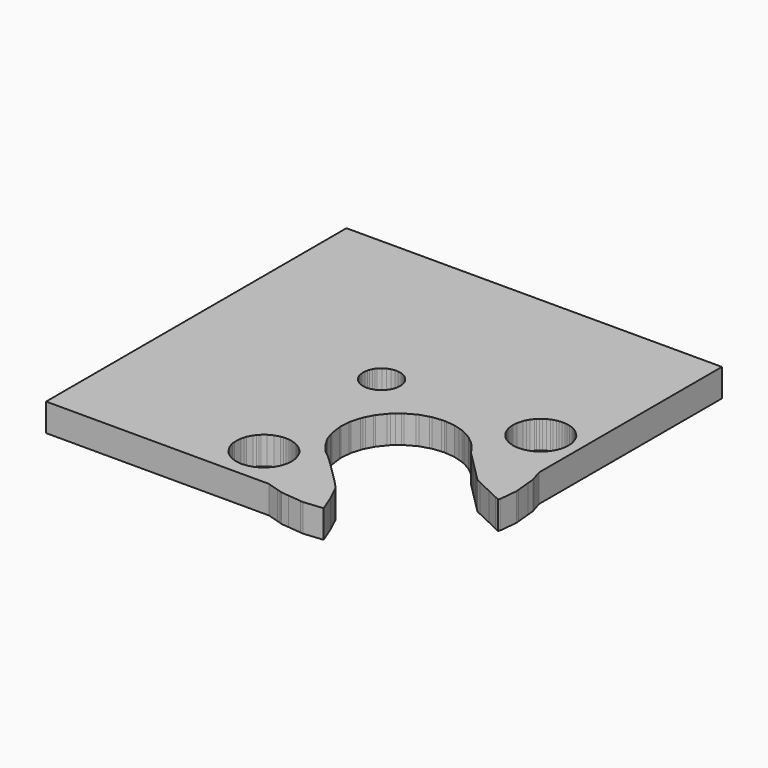
from build123d import *

# Parameters (mm, degrees)
F1_DEPTH = 3


with BuildPart() as f1:
    # F0 (on Top) → F1 (new body)
    with BuildSketch(Plane.XY):
        Polygon((-20.58, 20.649), (-20.58, -19.851), (3.454, -19.851), (4.676, -20.221), (5.018, -20.323), (5.282, -20.407), (6.062, -20.483), (7.502, -20.623), (7.776, -20.649), (9.83, -20.447), (9.146, -18.691), (8.506, -17.335), (8.342, -16.991), (7.854, -16.413), (7.252, -15.807), (6.136, -14.693), (5.44, -13.999), (4.368, -12.973), (3.77, -12.481), (3.432, -12.203), (3.174, -11.891), (2.826, -11.465), (2.342, -10.671), (2.112, -10.241), (1.918, -9.629), (1.812, -9.283), (1.644, -8.085), (1.618, -7.827), (1.712, -6.879), (1.736, -6.621), (2.014, -5.707), (2.088, -5.459), (2.196, -5.259), (2.538, -4.619), (2.634, -4.441), (3.238, -3.685), (3.432, -3.453), (3.77, -3.175), (4.17, -2.847), (4.324, -2.719), (5.21, -2.233), (5.44, -2.111), (6.352, -1.835), (6.598, -1.759), (7.55, -1.665), (7.808, -1.641), (8.064, -1.665), (9.012, -1.759), (9.606, -1.939), (10.032, -2.067), (10.404, -2.233), (11.246, -2.683), (11.946, -3.259), (12.374, -3.685), (12.952, -4.391), (13.122, -4.707), (13.744, -5.329), (14.128, -5.715), (14.492, -6.079), (15.608, -7.197), (16.346, -7.935), (16.75, -8.335), (17.15, -8.525), (18.762, -9.285), (19.894, -9.821), (20.296, -10.011), (20.382, -9.825), (20.58, -7.849), (20.552, -7.575), (20.408, -6.133), (20.332, -5.353), (20.25, -5.089), (19.92, -3.991), (19.92, 20.649), align=None)
        Polygon((-3.55, -16.033), (-3.586, -15.663), (-3.55, -14.863), (-3.462, -14.577), (-3.378, -14.301), (-3.102, -13.781), (-2.912, -13.551), (-2.782, -13.393), (-2.648, -13.261), (-2.274, -12.953), (-1.754, -12.677), (-1.192, -12.507), (-0.862, -12.473), (-0.606, -12.449), (-0.27, -12.483), (-0.016, -12.517), (0.236, -12.585), (0.542, -12.677), (0.844, -12.841), (1.178, -13.051), (1.586, -13.415), (1.888, -13.781), (2.08, -14.145), (2.196, -14.405), (2.336, -14.863), (2.394, -15.449), (2.336, -16.033), (2.164, -16.597), (2.026, -16.857), (1.888, -17.115), (1.722, -17.317), (1.496, -17.585), (1.224, -17.807), (0.96, -17.997), (0.72, -18.125), (0.514, -18.229), (-0.038, -18.393), (-0.606, -18.449), (-0.862, -18.425), (-1.174, -18.395), (-1.436, -18.319), (-1.796, -18.199), (-2.094, -18.039), (-2.384, -17.853), (-2.728, -17.569), (-2.95, -17.303), (-3.378, -16.597), align=None, mode=Mode.SUBTRACT)
        Polygon((-2.972, 0.441), (-3.038, 0.825), (-3.034, 1.215), (-2.984, 1.481), (-2.926, 1.681), (-2.794, 1.955), (-2.7, 2.119), (-2.572, 2.275), (-2.288, 2.545), (-1.96, 2.757), (-1.598, 2.899), (-1.214, 2.967), (-0.898, 2.967), (-0.514, 2.899), (-0.15, 2.757), (0.178, 2.545), (0.606, 2.095), (0.792, 1.749), (0.906, 1.373), (0.932, 1.095), (0.926, 0.805), (0.9, 0.573), (0.84, 0.375), (0.716, 0.077), (0.506, -0.251), (0.386, -0.397), (0.234, -0.531), (0.078, -0.659), (-0.108, -0.767), (-0.29, -0.865), (-0.514, -0.933), (-0.742, -0.987), (-1.056, -1.017), (-1.446, -0.979), (-1.822, -0.865), (-2.168, -0.679), (-2.472, -0.429), (-2.72, -0.127), (-2.868, 0.151), align=None, mode=Mode.SUBTRACT)
        Polygon((12.826, 1.091), (12.798, 1.381), (12.846, 1.867), (13.008, 2.469), (13.156, 2.777), (13.3, 3.047), (13.536, 3.329), (13.654, 3.473), (13.838, 3.635), (14.054, 3.813), (14.34, 3.987), (14.622, 4.137), (14.86, 4.215), (15.142, 4.303), (15.402, 4.341), (15.704, 4.371), (16.014, 4.359), (16.27, 4.331), (16.602, 4.255), (16.928, 4.157), (17.202, 4.013), (17.46, 3.875), (18.014, 3.387), (18.26, 3.085), (18.428, 2.793), (18.576, 2.497), (18.74, 1.965), (18.764, 1.713), (18.796, 1.373), (18.762, 1.009), (18.7, 0.669), (18.568, 0.233), (18.366, -0.147), (18.236, -0.353), (18.046, -0.585), (17.868, -0.781), (17.722, -0.901), (17.546, -1.047), (17.326, -1.189), (17.146, -1.285), (16.944, -1.391), (16.632, -1.485), (16.262, -1.573), (15.994, -1.601), (15.604, -1.601), (15.212, -1.561), (14.928, -1.475), (14.496, -1.311), (14.228, -1.167), (13.942, -0.959), (13.676, -0.741), (13.428, -0.437), (13.212, -0.115), (13.036, 0.211), (12.954, 0.469), (12.866, 0.759), align=None, mode=Mode.SUBTRACT)
    extrude(amount=F1_DEPTH)


solid = f1.part
